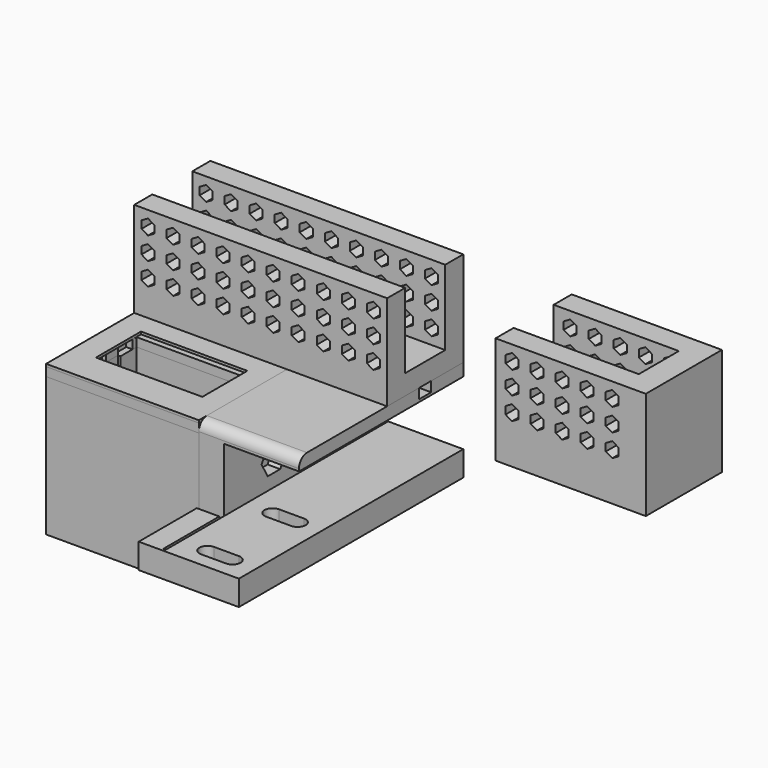
from build123d import *

# Parameters (mm, degrees)
BOX_W                   = 82
BOX_H                   = 61
BOX_DEPTH               = 60
BOX015_W                = 44.8
BOX015_H                = 61.2
BOX015_DEPTH            = 4.5
POCKET_DEPTH            = 10
BOX016_W                = 72
BOX016_H                = 51
BOX016_DEPTH            = 46
BOX017_W                = 31
BOX017_H                = 10
BOX017_DEPTH            = 16
BOX018_W                = 31
BOX018_H                = 51
BOX018_DEPTH            = 10
CYLINDER_R              = 6.5
CYLINDER_DEPTH          = 5
SKETCH012_R             = 3.1
POCKET008_DEPTH         = 5
SKETCH013_R             = 3.1
POCKET009_DEPTH         = 5
BODY_ROLL_ANGLE         = 180
BODY_PLACEMENT_ANGLE    = 90
BOX002_W                = 44
BOX002_H                = 61
BOX002_DEPTH            = 3.5
POCKET001_DEPTH         = 3.5
BODY001_ROLL_ANGLE      = 180
BODY001_PLACEMENT_ANGLE = 90
BOX003_W                = 44
BOX003_H                = 61
BOX003_DEPTH            = 1
BOX004_W                = 22.5
BOX004_H                = 42.5
BOX004_DEPTH            = 1
BODY002_PLACEMENT_ANGLE = 90
PAD_DEPTH               = 10
SKETCH003_W             = 10
SKETCH003_H             = 82
PAD001_DEPTH            = 25.5
SKETCH004_W             = 40
SKETCH004_H             = 82
PAD002_DEPTH            = 5
SKETCH009_W             = 43
SKETCH009_H             = 6
POCKET005_DEPTH         = 4
SKETCH010_R             = 3.1
POCKET006_DEPTH         = 10.001
POCKET007_DEPTH         = 5
FILLET_R                = 4
BOX019_W                = 10
BOX019_H                = 1
BOX019_DEPTH            = 10
BOX020_W                = 9
BOX020_H                = 29
BOX020_DEPTH            = 10
BOX012_W                = 101
BOX012_H                = 38
BOX012_DEPTH            = 8
BOX013_W                = 101
BOX013_H                = 9
BOX013_DEPTH            = 30
BOX014_W                = 101
BOX014_H                = 9
BOX014_DEPTH            = 30
POCKET002_DEPTH         = 38.001
LINEARPATTERN_COUNT     = 11
LINEARPATTERN_PITCH     = 10
SKETCH007_R             = 3.1
POCKET003_DEPTH         = 8.001
POCKET004_DEPTH         = 4
BOX021_W                = 60
BOX021_H                = 38
BOX021_DEPTH            = 13
PAD003_DEPTH            = 30
POCKET010_DEPTH         = 38.001
LINEARPATTERN001_COUNT  = 11
LINEARPATTERN001_PITCH  = 10
SKETCH016_R             = 2
POCKET011_DEPTH         = 15


with BuildPart() as socket:
    # Box → Box (join)
    with BuildSketch(Plane(origin=(-23.2, -21.8, -4.5), x_dir=(1, 0, 0), z_dir=(0, 0, 1))):
        with Locations((41, 30.5)):
            Rectangle(BOX_W, BOX_H)
    extrude(amount=BOX_DEPTH)

    # Box015 → Box015 (cut)
    with BuildSketch(Plane(origin=(-24, -22, -4.5), x_dir=(1, 0, 0), z_dir=(0, 0, 1))):
        with Locations((22.4, 30.6)):
            Rectangle(BOX015_W, BOX015_H)
    extrude(amount=BOX015_DEPTH, mode=Mode.SUBTRACT)

    # Sketch → Pocket (cut)
    with BuildSketch(Plane.XY):
        Polygon((-12, 29.25), (-4, 29.25), (-4, 30.25), (2, 30.25), (2, 29.25), (10, 29.25), (10, -12.25), (2, -12.25), (2, -13.25), (-4, -13.25), (-4, -12.25), (-12, -12.25), align=None)
    extrude(amount=POCKET_DEPTH, mode=Mode.SUBTRACT)

    # Box016 → Box016 (cut)
    with BuildSketch(Plane(origin=(-18, -17, 10), x_dir=(1, 0, 0), z_dir=(0, 0, 1))):
        with Locations((36, 25.5)):
            Rectangle(BOX016_W, BOX016_H)
    extrude(amount=BOX016_DEPTH, mode=Mode.SUBTRACT)

    # Box017 → Box017 (cut)
    with BuildSketch(Plane(origin=(23, 30, -6), x_dir=(1, 0, 0), z_dir=(0, 0, 1))):
        with Locations((15.5, 5)):
            Rectangle(BOX017_W, BOX017_H)
    extrude(amount=BOX017_DEPTH, mode=Mode.SUBTRACT)

    # Box018 → Box018 (cut)
    with BuildSketch(Plane(origin=(23, -17, 0), x_dir=(1, 0, 0), z_dir=(0, 0, 1))):
        with Locations((15.5, 25.5)):
            Rectangle(BOX018_W, BOX018_H)
    extrude(amount=BOX018_DEPTH, mode=Mode.SUBTRACT)

    # Cylinder → Cylinder (cut)
    with BuildSketch(Plane(origin=(1.8, 34, 15.5), x_dir=(1, 0, 0), z_dir=(0, -1, 0))):
        Circle(CYLINDER_R)
    extrude(amount=CYLINDER_DEPTH, mode=Mode.SUBTRACT)

    # Sketch012 (on Face11 of Cylinder) → Pocket008 (cut)
    with BuildSketch(Plane(origin=(1.8, 34, 15.5), x_dir=(1, 0, 0), z_dir=(0, -1, 0))):
        Circle(SKETCH012_R)
        with Locations((40, 0)):
            Circle(SKETCH012_R)
    extrude(amount=-POCKET008_DEPTH, mode=Mode.SUBTRACT)

    # Sketch013 (on Face37 of Pocket008) → Pocket009 (cut)
    with BuildSketch(Plane(origin=(1.8, 34, 0), x_dir=(-1, 0, 0), z_dir=(0, 0, 1))):
        with Locations((-38, 15.8)):
            Circle(SKETCH013_R)
        with Locations((-38, 42.8)):
            Circle(SKETCH013_R)
    extrude(amount=-POCKET009_DEPTH, mode=Mode.SUBTRACT)


with BuildPart() as socket_1:
    # Body roll: moved
    add(socket.part.rotate(Axis((0, 0, 0), (1, 0, 0)), BODY_ROLL_ANGLE))


with BuildPart() as socket_2:
    # Body placement: moved
    add(socket_1.part.moved(Location((-68.5, -19.3, 5.5))).rotate(Axis((-68.5, -19.3, 5.5), (0, 0, 1)), BODY_PLACEMENT_ANGLE))


with BuildPart() as socket_cover:
    # Box002 → Box002 (join)
    with BuildSketch(Plane(origin=(-23.2, -21.8, 0), x_dir=(1, 0, 0), z_dir=(0, 0, 1))):
        with Locations((22, 30.5)):
            Rectangle(BOX002_W, BOX002_H)
    extrude(amount=BOX002_DEPTH)

    # Sketch001 → Pocket001 (cut)
    with BuildSketch(Plane.XY):
        Polygon((-4, 30.25), (2, 30.25), (2, 31.75), (8, 31.75), (8, 29.25), (10, 29.25), (10, -12.25), (8, -12.25), (8, -14.75), (2, -14.75), (2, -13.25), (-4, -13.25), (-4, -14.75), (-10, -14.75), (-10, -12.25), (-12, -12.25), (-12, 29.25), (-10, 29.25), (-10, 31.75), (-4, 31.75), align=None)
    extrude(amount=POCKET001_DEPTH, mode=Mode.SUBTRACT)


with BuildPart() as socket_cover_1:
    # Body001 roll: moved
    add(socket_cover.part.rotate(Axis((0, 0, 0), (1, 0, 0)), BODY001_ROLL_ANGLE))


with BuildPart() as socket_cover_2:
    # Body001 placement: moved
    add(socket_cover_1.part.moved(Location((-68.5, -19.3, 9))).rotate(Axis((-68.5, -19.3, 9), (0, 0, 1)), BODY001_PLACEMENT_ANGLE))


with BuildPart() as cover:
    # Box003 → Box003 (join)
    with BuildSketch(Plane(origin=(-4, 0, 0), x_dir=(1, 0, 0), z_dir=(0, 0, 1))):
        with Locations((22, 30.5)):
            Rectangle(BOX003_W, BOX003_H)
    extrude(amount=BOX003_DEPTH)

    # Box004 → Box004 (cut)
    with BuildSketch(Plane(origin=(9, 9, 0), x_dir=(1, 0, 0), z_dir=(0, 0, 1))):
        with Locations((11.25, 21.25)):
            Rectangle(BOX004_W, BOX004_H)
    extrude(amount=BOX004_DEPTH, mode=Mode.SUBTRACT)


with BuildPart() as cover_1:
    # Body002 placement: moved
    add(cover.part.moved(Location((-29.3, -38.5, 9))).rotate(Axis((-29.3, -38.5, 9), (0, 0, 1)), BODY002_PLACEMENT_ANGLE))


with BuildPart() as desk_bracket:
    # Sketch002 → Pad (new body)
    with BuildSketch(Plane.XY):
        Polygon((0, 0), (30, 0), (30, 112), (-10, 112), (-10, 30), (0, 30), align=None)
        with BuildLine():
            ThreePointArc((10.5, 11.9), (7.3, 8.7), (10.5, 5.5))
            Line((10.5, 5.5), (20.5, 5.5))
            ThreePointArc((20.5, 5.5), (23.7, 8.7), (20.5, 11.9))
            Line((10.5, 11.9), (20.5, 11.9))
        make_face(mode=Mode.SUBTRACT)
        with BuildLine():
            ThreePointArc((10.5, 44.4), (7.3, 41.2), (10.5, 38))
            Line((10.5, 38), (20.5, 38))
            ThreePointArc((20.5, 38), (23.7, 41.2), (20.5, 44.4))
            Line((10.5, 44.4), (20.5, 44.4))
        make_face(mode=Mode.SUBTRACT)
    extrude(amount=-PAD_DEPTH)

    # Sketch003 (on Face15 of Pad) → Pad001 (join)
    with BuildSketch(Plane.XY):
        with Locations((-5, 71)):
            Rectangle(SKETCH003_W, SKETCH003_H)
    extrude(amount=PAD001_DEPTH)

    # Sketch004 (on Face20 of Pad001) → Pad002 (join)
    with BuildSketch(Plane.XY.offset(25.5)):
        with Locations((10, 71)):
            Rectangle(SKETCH004_W, SKETCH004_H)
    extrude(amount=PAD002_DEPTH)

    # Sketch009 (on Face26 of Pad002) → Pocket005 (cut)
    with BuildSketch(Plane.XY.offset(30.5)):
        with Locations((8.5, 93)):
            Rectangle(SKETCH009_W, SKETCH009_H)
    extrude(amount=-POCKET005_DEPTH, mode=Mode.SUBTRACT)

    # Sketch010 (on Face8 of Pocket005) → Pocket006 (cut, through all)
    with BuildSketch(Plane.YZ):
        with Locations((55, 10.5)):
            Circle(SKETCH010_R)
        with Locations((95, 10.5)):
            Circle(SKETCH010_R)
    extrude(amount=-POCKET006_DEPTH, mode=Mode.SUBTRACT)

    # Sketch011 (on Face8 of Pocket006) → Pocket007 (cut)
    with BuildSketch(Plane.YZ):
        Polygon((61.2, 10.5), (58.1, 15.869358), (51.9, 15.869358), (48.8, 10.5), (51.9, 5.130642), (58.1, 5.130642), align=None)
        Polygon((101.2, 10.5), (98.1, 15.869358), (91.9, 15.869358), (88.8, 10.5), (91.9, 5.130642), (98.1, 5.130642), align=None)
    extrude(amount=-POCKET007_DEPTH, mode=Mode.SUBTRACT)

    # Fillet
    fillet_edges = [desk_bracket.edges().sort_by_distance(p)[0] for p in [
        (10, 30, 30.5),
    ]]
    fillet(fillet_edges, radius=FILLET_R)

    # Box019 → Box019 (join)
    with BuildSketch(Plane(origin=(-10, 0, -10), x_dir=(1, 0, 0), z_dir=(0, 0, 1))):
        with Locations((5, 0.5)):
            Rectangle(BOX019_W, BOX019_H)
    extrude(amount=BOX019_DEPTH)

    # Box020 → Box020 (join)
    with BuildSketch(Plane(origin=(-10, 0, -10), x_dir=(1, 0, 0), z_dir=(0, 0, 1))):
        with Locations((4.5, 14.5)):
            Rectangle(BOX020_W, BOX020_H)
    extrude(amount=BOX020_DEPTH)


with BuildPart() as desk_bracket_1:
    # Body004 placement: moved
    add(desk_bracket.part.moved(Location((-19.3, -72.5, -20.5))))


with BuildPart() as body005:
    # Box012 → Box012 (join)
    with BuildSketch(Plane(origin=(-10, 0, 0), x_dir=(1, 0, 0), z_dir=(0, 0, 1))):
        with Locations((50.5, 19)):
            Rectangle(BOX012_W, BOX012_H)
    extrude(amount=BOX012_DEPTH)

    # Box013 → Box013 (join)
    with BuildSketch(Plane(origin=(-10, 0, 8), x_dir=(1, 0, 0), z_dir=(0, 0, 1))):
        with Locations((50.5, 4.5)):
            Rectangle(BOX013_W, BOX013_H)
    extrude(amount=BOX013_DEPTH)

    # Box014 → Box014 (join)
    with BuildSketch(Plane(origin=(-10, 29, 8), x_dir=(1, 0, 0), z_dir=(0, 0, 1))):
        with Locations((50.5, 4.5)):
            Rectangle(BOX014_W, BOX014_H)
    extrude(amount=BOX014_DEPTH)

    # Sketch006 (on Face6 of Box014) → Pocket002 (cut, through all)
    with BuildSketch(Plane(origin=(-10, 38, 8), x_dir=(-1, 0, 0), z_dir=(0, 1, 0))):
        Polygon((-95.5, 21), (-92.901924, 22.5), (-92.901924, 25.5), (-95.5, 27), (-98.098076, 25.5), (-98.098076, 22.5), align=None)
        Polygon((-92.901924, 16.5), (-95.5, 18), (-98.098076, 16.5), (-98.098076, 13.5), (-95.5, 12), (-92.901924, 13.5), align=None)
        Polygon((-92.901924, 7.5), (-95.5, 9), (-98.098076, 7.5), (-98.098076, 4.5), (-95.5, 3), (-92.901924, 4.5), align=None)
    pocket002 = extrude(amount=-POCKET002_DEPTH, mode=Mode.SUBTRACT)

    # LinearPattern: Pocket002 ×11
    with Locations(*[(-i * LINEARPATTERN_PITCH, 0, 0) for i in range(1, LINEARPATTERN_COUNT)]):
        add(pocket002, mode=Mode.SUBTRACT)

    # Sketch007 (on Face4 of LinearPattern) → Pocket003 (cut, through all)
    with BuildSketch(Plane(origin=(-10, 29, 8), x_dir=(1, 0, 0), z_dir=(0, 0, 1))):
        with Locations((13, -10)):
            Circle(SKETCH007_R)
        with Locations((40, -10)):
            Circle(SKETCH007_R)
    extrude(amount=-POCKET003_DEPTH, mode=Mode.SUBTRACT)

    # Sketch008 (on Face4 of Pocket003) → Pocket004 (cut)
    with BuildSketch(Plane(origin=(-10, 29, 8), x_dir=(1, 0, 0), z_dir=(0, 0, 1))):
        Polygon((19.2, -10), (16.1, -4.630642), (9.9, -4.630642), (6.8, -10), (9.9, -15.369358), (16.1, -15.369358), align=None)
        Polygon((43.1, -15.369358), (46.2, -10), (43.1, -4.630642), (36.9, -4.630642), (33.8, -10), (36.9, -15.369358), align=None)
    extrude(amount=-POCKET004_DEPTH, mode=Mode.SUBTRACT)


with BuildPart() as body005_1:
    # Body005 placement: moved
    add(body005.part.moved(Location((-80.3, 1.5, 10))))


with BuildPart() as body006:
    # Box021 → Box021 (join)
    with BuildSketch(Plane.XY):
        with Locations((30, 19)):
            Rectangle(BOX021_W, BOX021_H)
    extrude(amount=BOX021_DEPTH)

    # Sketch014 (on Face6 of Box021) → Pad003 (join)
    with BuildSketch(Plane.XY.offset(13)):
        Polygon((0, 38), (0, 29), (50, 29), (50, 9), (0, 9), (0, 0), (60, 0), (60, 38), align=None)
    extrude(amount=PAD003_DEPTH)

    # Sketch015 (on Face8 of Pad003) → Pocket010 (cut, through all)
    with BuildSketch(Plane.XZ):
        Polygon((49.196152, 38.5), (46.598076, 40), (44, 38.5), (44, 35.5), (46.598076, 34), (49.196152, 35.5), align=None)
        Polygon((49.196152, 29.5), (46.598076, 31), (44, 29.5), (44, 26.5), (46.598076, 25), (49.196152, 26.5), align=None)
        Polygon((49.196152, 20.5), (46.598076, 22), (44, 20.5), (44, 17.5), (46.598076, 16), (49.196152, 17.5), align=None)
    pocket010 = extrude(amount=-POCKET010_DEPTH, mode=Mode.SUBTRACT)

    # LinearPattern001: Pocket010 ×11
    with Locations(*[(-i * LINEARPATTERN001_PITCH, 0, 0) for i in range(1, LINEARPATTERN001_COUNT)]):
        add(pocket010, mode=Mode.SUBTRACT)

    # Sketch016 (on Face8 of LinearPattern001) → Pocket011 (cut)
    with BuildSketch(Plane(origin=(0, 38, 0), x_dir=(-1, 0, 0), z_dir=(0, 1, 0))):
        with Locations((-50, 6)):
            Circle(SKETCH016_R)
        with Locations((-15, 6)):
            Circle(SKETCH016_R)
    extrude(amount=-POCKET011_DEPTH, mode=Mode.SUBTRACT)


with BuildPart() as body006_1:
    # Body006 placement: moved
    add(body006.part.moved(Location((54, 1.5, 5))))


solid = Compound([socket_2.part, socket_cover_2.part, cover_1.part, desk_bracket_1.part, body005_1.part, body006_1.part])
